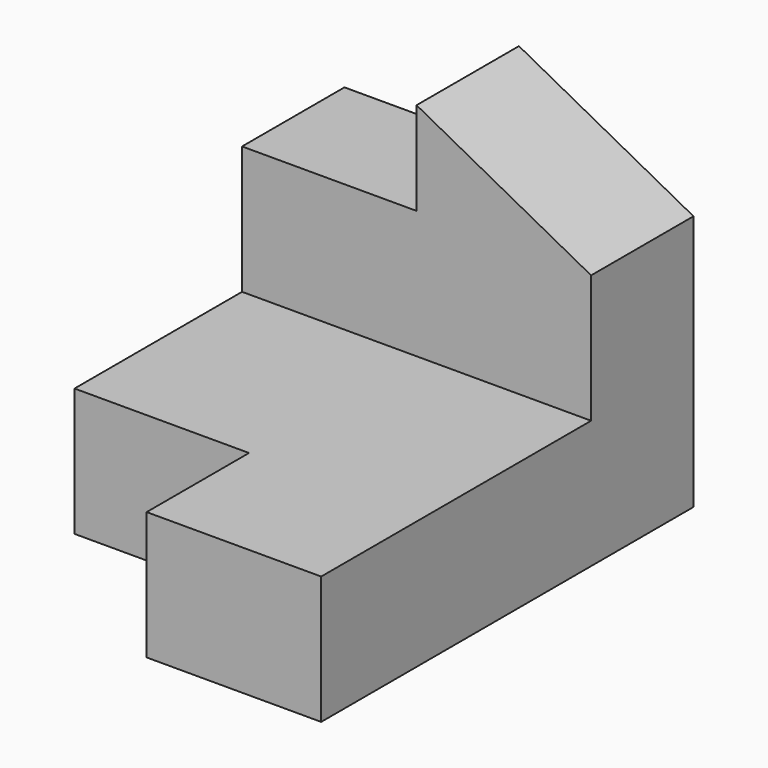
from build123d import *

# Parameters (mm, degrees)
F1_DEPTH = 30
F2_W     = 11
F2_H     = 15
F3_DEPTH = 11
F4_W     = 15
F4_H     = 8
F5_DEPTH = 11
F6_ANGLE = -90
F8_DEPTH = 11.001


with BuildPart() as f1:
    # F0 (on Front) → F1 (new body)
    with BuildSketch(Plane.XZ):
        Polygon((0, 30), (0, 0), (40, 0), (40, 11), (11, 11), (11, 30), align=None)
    extrude(amount=F1_DEPTH)

    # F2 (on face) → F3 (cut, through all)
    with BuildSketch(Plane.XY.offset(11)):
        with Locations((34.5, -22.5)):
            Rectangle(F2_W, F2_H)
    extrude(amount=-F3_DEPTH, mode=Mode.SUBTRACT)

    # F4 (on face) → F5 (cut, through all)
    with BuildSketch(Plane.YZ.offset(11)):
        with Locations((-22.5, 26)):
            Rectangle(F4_W, F4_H)
    extrude(amount=-F5_DEPTH, mode=Mode.SUBTRACT)


with BuildPart() as f1_1:
    # F6: moved
    add(f1.part.rotate(Axis((0, 0, 15), (0, 0, 1)), F6_ANGLE))

    # F7 (on face) → F8 (cut, through all)
    with BuildSketch(Plane.XZ.offset(11)):
        Polygon((0, 30), (-15, 30), (-7.5, 26), align=None)
        Polygon((0, 30), (-7.5, 26), (0, 22), align=None)
    extrude(amount=-F8_DEPTH, mode=Mode.SUBTRACT)


solid = f1_1.part
